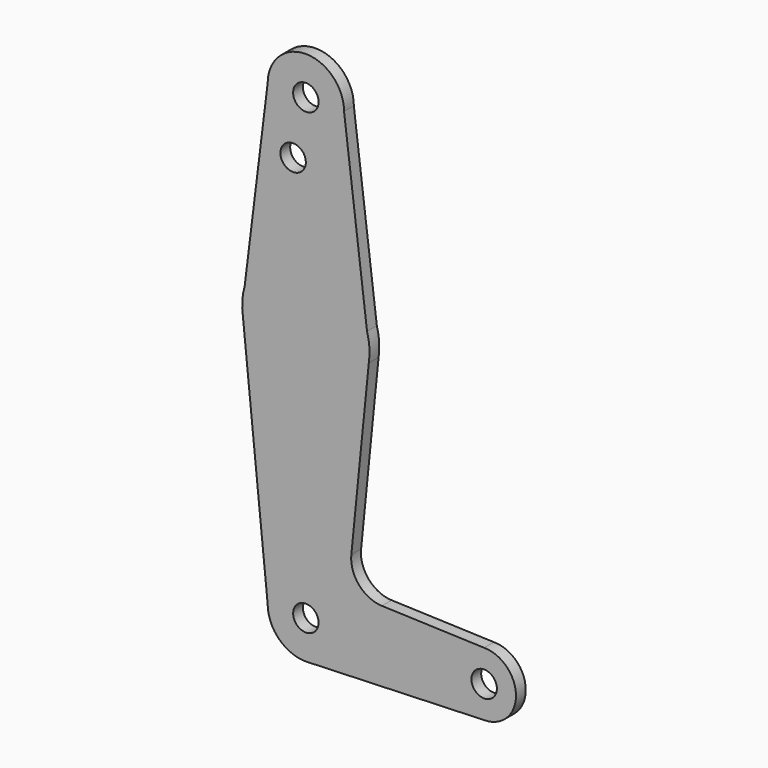
from build123d import *

# Parameters (mm, degrees)
F0_R     = 3.168794
F0_R_2   = 3.177093
F0_R_3   = 3.17037
F0_R_4   = 3.175
F1_DEPTH = 3.048


with BuildPart() as f1:
    # F0 (on Front) → F1 (new body)
    with BuildSketch(Plane.XZ):
        with BuildLine():
            Line((15.256103, 67.889412), (9.525, 114.3))
            ThreePointArc((9.525, 114.3), (0, 123.825), (-9.525, 114.3))
            Line((-9.525, 114.3), (-15.256103, 67.889412))
            ThreePointArc((-15.256103, 67.889412), (-15.84282, 64.510285), (-15.690079, 61.084003))
            Line((-15.690079, 61.084003), (-9.523859, 0))
            ThreePointArc((-9.523859, 0), (-6.612731, -6.853881), (0.340984, -9.517753))
            Line((0.340984, -9.517753), (44.45, -7.9375))
            ThreePointArc((44.45, -7.9375), (52.3875, 0), (44.45, 7.9375))
            Line((44.45, 7.9375), (18.959978, 8.847204))
            ThreePointArc((18.959978, 8.847204), (13.254193, 11.564197), (11.332915, 17.584723))
            Line((11.332915, 17.584723), (15.690079, 61.084003))
            ThreePointArc((15.690079, 61.084003), (15.84282, 64.510285), (15.256103, 67.889412))
        make_face()
        Circle(F0_R, mode=Mode.SUBTRACT)
        with Locations((44.45, 0)):
            Circle(F0_R_2, mode=Mode.SUBTRACT)
        with Locations((-3.175, 100.0252)):
            Circle(F0_R_3, mode=Mode.SUBTRACT)
        with Locations((0, 114.3)):
            Circle(F0_R_4, mode=Mode.SUBTRACT)
    extrude(amount=F1_DEPTH)


solid = f1.part
